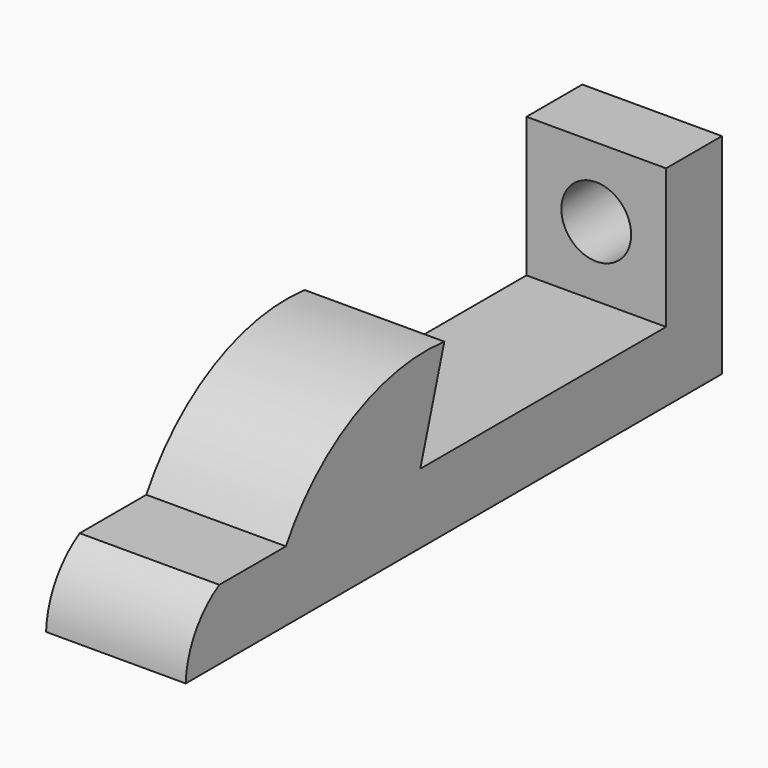
from build123d import *

# Parameters (mm, degrees)
F1_DEPTH = 12.7
F2_R     = 3.175
F3_DEPTH = 25.4


with BuildPart() as f1:
    # F0 (on Right) → F1 (new body)
    with BuildSketch(Plane.YZ):
        with BuildLine():
            Line((-3.82134, 0), (0, 0))
            Line((0, 0), (50.8, 0))
            Line((50.8, 0), (57.15, 0))
            Line((57.15, 0), (57.15, 19.05))
            Line((57.15, 19.05), (50.8, 19.05))
            Line((50.8, 19.05), (50.8, 6.35))
            Line((50.8, 6.35), (22.854816, 6.35))
            Line((22.854816, 6.35), (25.589257, 15.422352))
            ThreePointArc((25.589257, 15.422352), (15.227977, 13.574267), (7.574122, 6.35))
            Line((7.574122, 6.35), (0, 6.35))
            ThreePointArc((0, 6.35), (-2.73009, 3.668115), (-3.82134, 0))
        make_face()
    extrude(amount=F1_DEPTH)

    # F2 (on face) → F3 (cut)
    with BuildSketch(Plane.XZ.offset(-50.8)):
        with Locations((6.35, 12.7)):
            Circle(F2_R)
    extrude(amount=-F3_DEPTH, mode=Mode.SUBTRACT)


solid = f1.part
